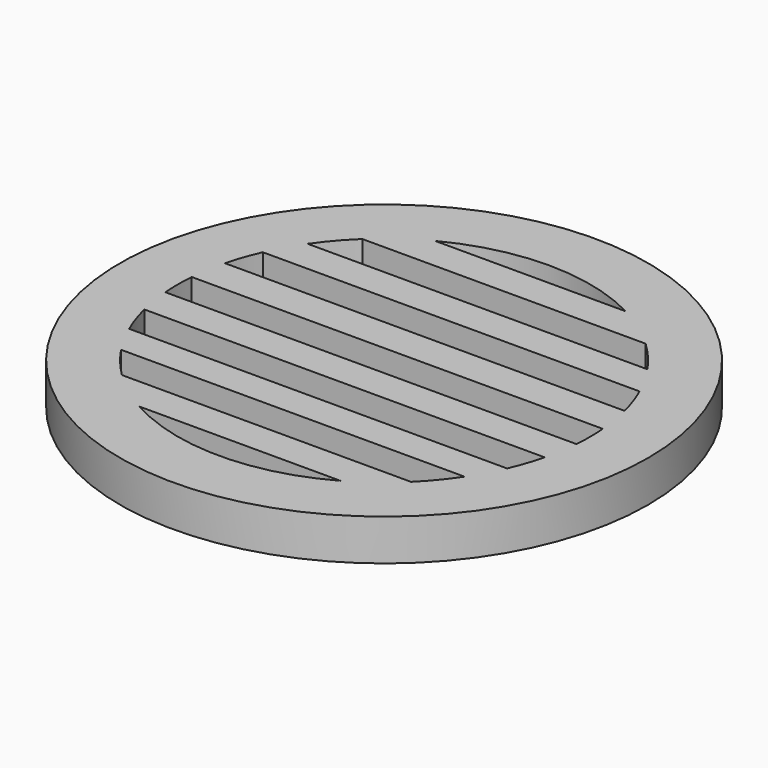
from build123d import *

# Parameters (mm, degrees)
F0_R     = 40.64
F0_R_2   = 2.54
F1_DEPTH = 6.35
F3_R     = 35.814
F4_DEPTH = 2.413
F5_DEPTH = 8.764


with BuildPart() as f1:
    # F0 (on Top) → F1 (new body)
    with BuildSketch(Plane.XY):
        Circle(F0_R)
        Circle(F0_R_2, mode=Mode.SUBTRACT)
    extrude(amount=F1_DEPTH)

    # F3 (on face) → F4 (join)
    with BuildSketch(Plane(origin=(0, 0, 0), x_dir=(1, 0, 0), z_dir=(0, 0, -1))):
        Circle(F3_R)
    extrude(amount=F4_DEPTH)

    # F2 (on face) → F5 (cut, through all)
    with BuildSketch(Plane.XY.offset(6.35)):
        with BuildLine():
            Line((-26.1582, 17.994751), (26.1582, 17.994751))
            ThreePointArc((26.1582, 17.994751), (24.117564, 20.649591), (21.808676, 23.074751))
            Line((21.808676, 23.074751), (-21.808676, 23.074751))
            ThreePointArc((-21.808676, 23.074751), (-24.117564, 20.649591), (-26.1582, 17.994751))
        make_face()
        with BuildLine():
            Line((0, 2.54), (-31.648237, 2.54))
            ThreePointArc((-31.648237, 2.54), (-31.75, 0), (-31.648237, -2.54))
            Line((-31.648237, -2.54), (31.648237, -2.54))
            ThreePointArc((31.648237, -2.54), (31.75, 0), (31.648237, 2.54))
            Line((31.648237, 2.54), (0, 2.54))
        make_face()
        with BuildLine():
            ThreePointArc((-29.004684, 12.914751), (-29.994159, 10.412152), (-30.768152, 7.834751))
            Line((-30.768152, 7.834751), (30.768152, 7.834751))
            ThreePointArc((30.768152, 7.834751), (29.994159, 10.412152), (29.004684, 12.914751))
            Line((29.004684, 12.914751), (-29.004684, 12.914751))
        make_face()
        with BuildLine():
            Line((-14.675575, 28.154751), (14.675575, 28.154751))
            ThreePointArc((14.675575, 28.154751), (0, 31.75), (-14.675575, 28.154751))
        make_face()
        with BuildLine():
            Line((30.822039, -7.62), (-30.822039, -7.62))
            ThreePointArc((-30.822039, -7.62), (-30.068172, -10.196446), (-29.099356, -12.7))
            Line((-29.099356, -12.7), (29.099356, -12.7))
            ThreePointArc((29.099356, -12.7), (30.068172, -10.196446), (30.822039, -7.62))
        make_face()
        with BuildLine():
            Line((26.448526, -17.565249), (-26.448526, -17.565249))
            ThreePointArc((-26.448526, -17.565249), (-24.483538, -20.214323), (-22.25433, -22.645249))
            Line((-22.25433, -22.645249), (22.25433, -22.645249))
            ThreePointArc((22.25433, -22.645249), (24.483538, -20.214323), (26.448526, -17.565249))
        make_face()
        with BuildLine():
            Line((15.471686, -27.725249), (-15.471686, -27.725249))
            ThreePointArc((-15.471686, -27.725249), (0, -31.75), (15.471686, -27.725249))
        make_face()
    extrude(amount=-F5_DEPTH, mode=Mode.SUBTRACT)


solid = f1.part
